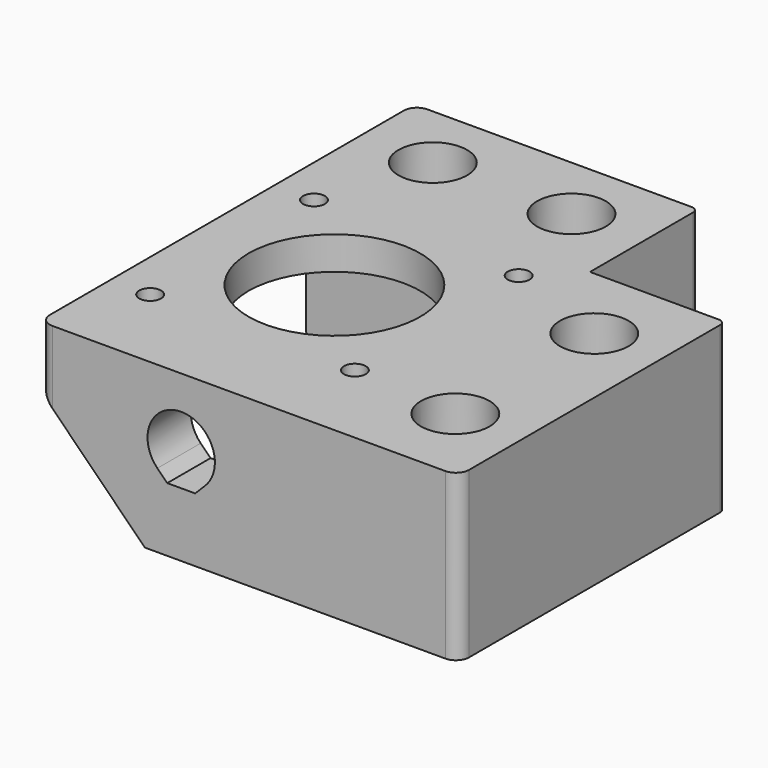
from build123d import *

# Parameters (mm, degrees)
EXTRUDE008_DEPTH               = 10
EXTRUDE008_PLACEMENT_ANGLE     = 90
PRISM003_DEPTH                 = 0.3
PRISM003_PLACEMENT_ANGLE       = 30
PRISM002_DEPTH                 = 0.3
SKETCH009_R                    = 2.7
EXTRUDE010_DEPTH               = 25
SKETCH008_R                    = 5.2
EXTRUDE009_DEPTH               = 6
SKETCH007_R                    = 13
SKETCH007_R_2                  = 1.65
EXTRUDE007_DEPTH               = 5
BOX010_W                       = 43
BOX010_H                       = 42.3
BOX010_DEPTH                   = 20
CHAMFER003_SIZE                = 4
BOX011_W                       = 20.5
BOX011_H                       = 20.5
BOX011_DEPTH                   = 25
BOX012_W                       = 63.5
BOX012_H                       = 71
BOX012_DEPTH                   = 25
CHAMFER004_1_SIZE              = 16
CHAMFER004_2_SIZE              = 3
FILLET002_1_R                  = 2
FILLET002_2_R                  = 1
PART_MIRRORING_PLACEMENT_ANGLE = 180


with BuildPart() as obj1:
    # Sketch010 → Extrude008 (new body)
    with BuildSketch(Plane.YZ):
        with BuildLine():
            ThreePointArc((-3.606261, 3.606229), (0, -5.1), (3.606261, 3.606229))
            Line((2.112489, 5.1), (3.606261, 3.606229))
            Line((-2.112489, 5.1), (2.112489, 5.1))
            Line((-3.606261, 3.606229), (-2.112489, 5.1))
        make_face()
    extrude(amount=EXTRUDE008_DEPTH)


with BuildPart() as obj1_1:
    # Extrude008 placement: moved
    add(obj1.part.moved(Location((42, 62, 10.2))).rotate(Axis((42, 62, 10.2), (0, 0, 1)), EXTRUDE008_PLACEMENT_ANGLE))


with BuildPart() as obj2:
    # Prism003 → Prism003 (new body)
    with BuildSketch(Plane.XY):
        Polygon((3.1, 0), (1.55, 2.684679), (-1.55, 2.684679), (-3.1, 0), (-1.55, -2.684679), (1.55, -2.684679), align=None)
    extrude(amount=PRISM003_DEPTH)


with BuildPart() as obj2_1:
    # Prism003 placement: moved
    add(obj2.part.moved(Location((10.25, 32.5, 6.3))).rotate(Axis((10.25, 32.5, 6.3), (0, 0, 1)), PRISM003_PLACEMENT_ANGLE))


with BuildPart() as soporte_circulos001:
    # Prism002 → Prism002 (new body)
    with BuildSketch(Plane(origin=(10.25, 32.5, 6), x_dir=(1, 0, 0), z_dir=(0, 0, 1))):
        Polygon((5.3, 0), (-2.65, 4.589935), (-2.65, -4.589935), align=None)
    extrude(amount=PRISM002_DEPTH)

    # Fusion012: union obj2
    add(obj2_1.part)


with BuildPart() as clone009:
    # Clone009 base: copy of soporte_circulos001
    add(soporte_circulos001.part)


with BuildPart() as clone009_1:
    # Clone009 placement: moved
    add(clone009.part.moved(Location((0, 26.3, 0))))


with BuildPart() as clone008:
    # Clone008 base: copy of soporte_circulos001
    add(soporte_circulos001.part)


with BuildPart() as clone008_1:
    # Clone008 placement: moved
    add(clone008.part.moved(Location((21.25, -22.25, 0))))


with BuildPart() as clone010:
    # Clone010 base: copy of Clone008
    add(clone008_1.part)


with BuildPart() as clone010_1:
    # Clone010 placement: moved
    add(clone010.part.moved(Location((21, 0, 0))))


with BuildPart() as huecos_soporte_taladros001:
    # Fusion013 base: copy of soporte_circulos001
    add(soporte_circulos001.part)

    # Fusion013: union Clone009, Clone008, Clone010
    add(clone009_1.part)
    add(clone008_1.part)
    add(clone010_1.part)


with BuildPart() as obj3:
    # Sketch009 → Extrude010 (new body)
    with BuildSketch(Plane.XY):
        with Locations((31.5, 10.25)):
            Circle(SKETCH009_R)
        with Locations((52.5, 10.25)):
            Circle(SKETCH009_R)
        with Locations((10.25, 32.5)):
            Circle(SKETCH009_R)
        with Locations((10.25, 58.8)):
            Circle(SKETCH009_R)
    extrude(amount=EXTRUDE010_DEPTH)


with BuildPart() as fusion014:
    # Sketch008 → Extrude009 (new body)
    with BuildSketch(Plane.XY):
        with Locations((31.5, 10.25)):
            Circle(SKETCH008_R)
        with Locations((52.5, 10.25)):
            Circle(SKETCH008_R)
        with Locations((10.25, 32.5)):
            Circle(SKETCH008_R)
        with Locations((10.25, 58.8)):
            Circle(SKETCH008_R)
    extrude(amount=EXTRUDE009_DEPTH)

    # Fusion015: union obj3
    add(obj3.part)

    # Fusion014: union obj1, huecos_soporte_taladros001
    add(obj1_1.part)
    add(huecos_soporte_taladros001.part)


with BuildPart() as agujero_motor001:
    # Sketch007 (on Face6 of Box010) → Extrude007 (new body)
    with BuildSketch(Plane(origin=(20.5, 20.5, 25), x_dir=(1, 0, 0), z_dir=(0, 0, 1))):
        with Locations((21.5, 21.5)):
            Circle(SKETCH007_R)
        with Locations((6, 37)):
            Circle(SKETCH007_R_2)
        with Locations((37, 37)):
            Circle(SKETCH007_R_2)
        with Locations((37, 6)):
            Circle(SKETCH007_R_2)
        with Locations((6, 6)):
            Circle(SKETCH007_R_2)
    extrude(amount=EXTRUDE007_DEPTH)


with BuildPart() as agujero_motor001_1:
    # Extrude007 placement: moved
    add(agujero_motor001.part.moved(Location((0, 0, -25))))


with BuildPart() as hueco_motor_total001:
    # Box010 → Box010 (new body)
    with BuildSketch(Plane(origin=(20.5, 20.5, 5), x_dir=(1, 0, 0), z_dir=(0, 0, 1))):
        with Locations((21.5, 21.15)):
            Rectangle(BOX010_W, BOX010_H)
    extrude(amount=BOX010_DEPTH)

    # Chamfer003
    chamfer003_edges = [hueco_motor_total001.edges().sort_by_distance(p)[0] for p in [
        (20.5, 20.5, 15),
        (20.5, 62.8, 15),
    ]]
    chamfer(chamfer003_edges, length=CHAMFER003_SIZE)

    # Fusion011: union agujero_motor001
    add(agujero_motor001_1.part)


with BuildPart() as obj4:
    # Box011 → Box011 (new body)
    with BuildSketch(Plane.XY):
        with Locations((10.25, 10.25)):
            Rectangle(BOX011_W, BOX011_H)
    extrude(amount=BOX011_DEPTH)


with BuildPart() as obj5:
    # Box012 → Box012 (new body)
    with BuildSketch(Plane.XY):
        with Locations((31.75, 35.5)):
            Rectangle(BOX012_W, BOX012_H)
    extrude(amount=BOX012_DEPTH)

    # Cut008: cut obj4
    add(obj4.part, mode=Mode.SUBTRACT)

    # Cut007: cut hueco_motor_total001
    add(hueco_motor_total001.part, mode=Mode.SUBTRACT)

    # Cut009: cut Fusion014
    add(fusion014.part, mode=Mode.SUBTRACT)

    # Chamfer004 1
    chamfer004_1_edges = [obj5.edges().sort_by_distance(p)[0] for p in [
        (63.5, 66.9, 25),
    ]]
    chamfer(chamfer004_1_edges, length=CHAMFER004_1_SIZE)

    # Chamfer004 2
    chamfer004_2_edges = [obj5.edges().sort_by_distance(p)[0] for p in [
        (63.5, 10.25, 25),
    ]]
    chamfer(chamfer004_2_edges, length=CHAMFER004_2_SIZE)

    # Fillet002 1
    fillet002_1_edges = [obj5.edges().sort_by_distance(p)[0] for p in [
        (63.5, 71, 4.5),
        (0, 71, 12.5),
        (63.5, 0, 11),
    ]]
    fillet(fillet002_1_edges, radius=FILLET002_1_R)

    # Fillet002 2
    fillet002_2_edges = [obj5.edges().sort_by_distance(p)[0] for p in [
        (0, 20.5, 12.5),
        (20.5, 0, 12.5),
    ]]
    fillet(fillet002_2_edges, radius=FILLET002_2_R)


with BuildPart() as motor_xy_der:
    # Part__Mirroring: instance of obj5
    add(obj5.part.mirror(Plane(origin=(0, 0, 0), x_dir=(1, 0, 0), z_dir=(0, 1, 0))))


with BuildPart() as motor_xy_der_1:
    # Part__Mirroring placement: moved
    add(motor_xy_der.part.moved(Location((710, 630, 635))).rotate(Axis((710, 630, 635), (0, 1, 0)), PART_MIRRORING_PLACEMENT_ANGLE))


solid = motor_xy_der_1.part
